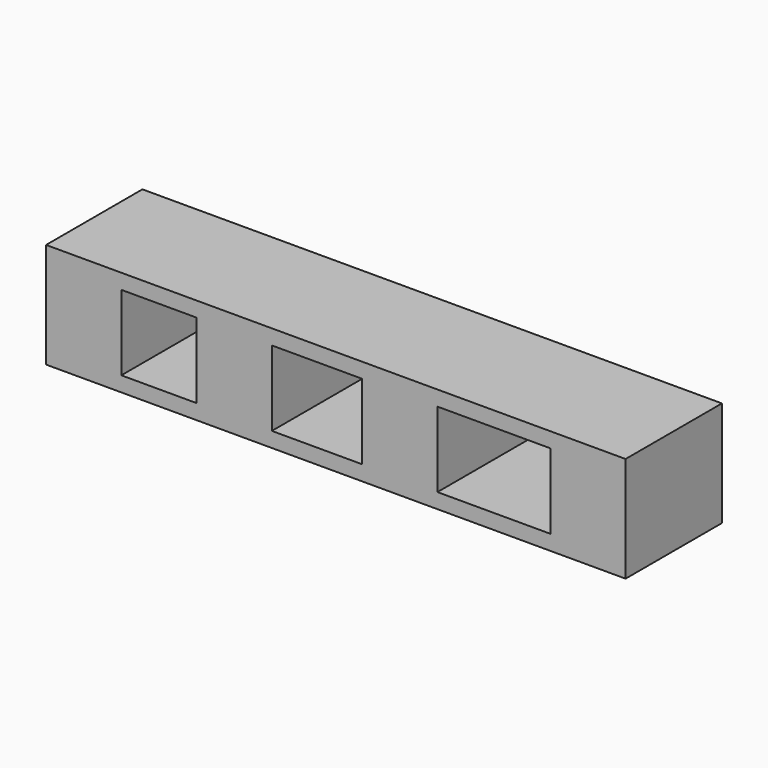
from build123d import *

# Parameters (mm, degrees)
F0_W     = 5
F0_H     = 8
F1_DEPTH = 5
F2_W     = 38.5
F2_H     = 8
F3_DEPTH = 1
F4_W     = 38.5
F4_H     = 8
F5_DEPTH = 1


with BuildPart() as f1:
    # F0 (on Top) → F1 (new body)
    with BuildSketch(Plane.XY):
        with Locations((2.5, 4)):
            Rectangle(F0_W, F0_H)
        with Locations((12.5, 4)):
            Rectangle(F0_W, F0_H)
        with Locations((23.5, 4)):
            Rectangle(F0_W, F0_H)
        with Locations((36, 4)):
            Rectangle(F0_W, F0_H)
    extrude(amount=F1_DEPTH)

    # F2 (on Top) → F3 (join)
    with BuildSketch(Plane.XY):
        with Locations((19.25, 4)):
            Rectangle(F2_W, F2_H)
    extrude(amount=-F3_DEPTH)

    # F4 (on face) → F5 (join)
    with BuildSketch(Plane.XY.offset(5)):
        with Locations((19.25, 4)):
            Rectangle(F4_W, F4_H)
    extrude(amount=F5_DEPTH)


solid = f1.part
